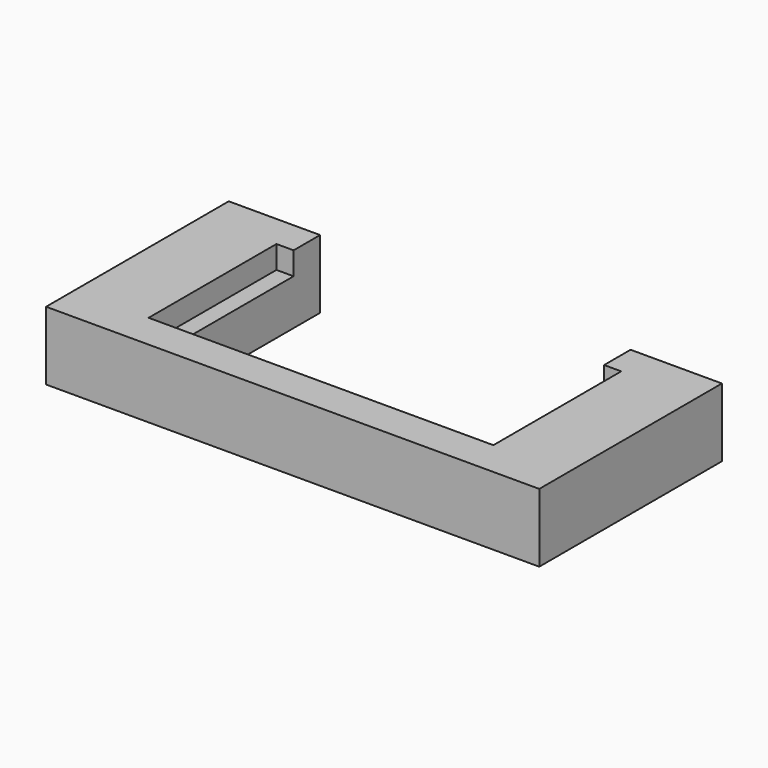
from build123d import *

# Parameters (mm, degrees)
F1_DEPTH = 3
F3_DEPTH = 1


with BuildPart() as f1:
    # F0 (on Top) → F1 (new body)
    with BuildSketch(Plane.XY):
        Polygon((0, 10), (0, 0), (21.6, 0), (21.6, 10), (17.6, 10), (17.6, 2.3), (4, 2.3), (4, 10), align=None)
    extrude(amount=F1_DEPTH)

    # F2 (on face) → F3 (cut)
    with BuildSketch(Plane.XY.offset(3)):
        Polygon((4, 2.3), (4, 8.55), (3.25, 8.55), (3.25, 1.55), (18.35, 1.55), (18.35, 8.55), (17.6, 8.55), (17.6, 2.3), align=None)
    extrude(amount=-F3_DEPTH, mode=Mode.SUBTRACT)


solid = f1.part
